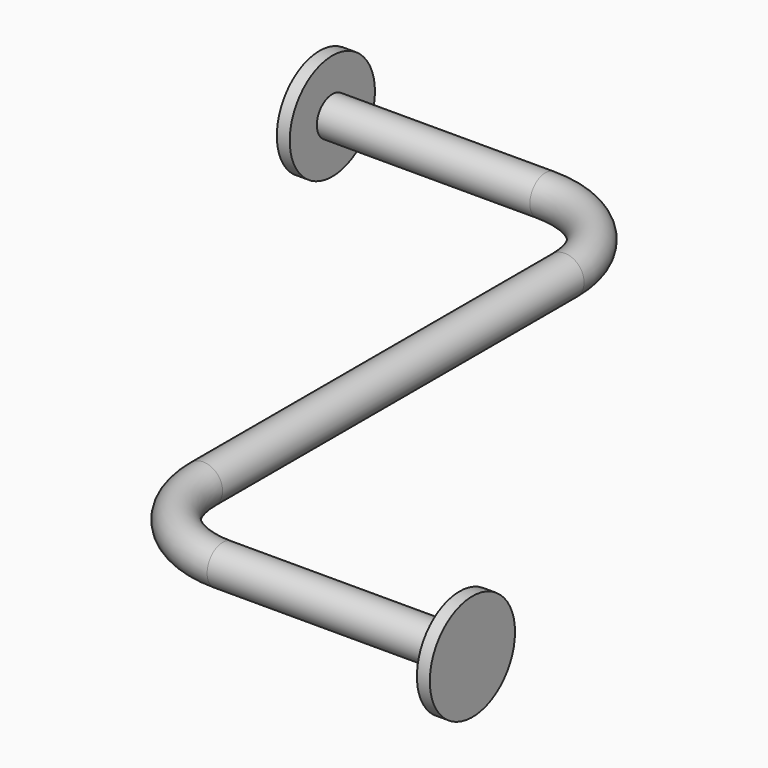
from build123d import *

# Parameters (mm, degrees)
F1_R     = 30
F1_R_2   = 82.5
F3_DEPTH = 20
F4_R     = 82.5
F4_R_2   = 30
F5_DEPTH = 20


with BuildPart() as f2:
    # F2: sweep along a path in F0
    with BuildLine(Plane.XY) as f2_path:
        Line((0, 0), (350, 0))
        ThreePointArc((350, 0), (456.066017178, -43.933982822), (500, -150))
        Line((500, -150), (500, -850))
        ThreePointArc((500, -850), (543.933982822, -956.066017178), (650, -1000))
        Line((650, -1000), (1037, -1000))
    # F1 (on Right) → F2 (sweep)
    with BuildSketch(Plane.YZ):
        Circle(F1_R)
    sweep(path=f2_path.line)

    # F1 (on Right) → F3 (join)
    with BuildSketch(Plane.YZ):
        Circle(F1_R_2)
        Circle(F1_R, mode=Mode.SUBTRACT)
    extrude(amount=F3_DEPTH)

    # F4 (on face) → F5 (join)
    with BuildSketch(Plane.YZ.offset(1037)):
        with Locations((-1000, 0)):
            Circle(F4_R)
        with Locations((-1000, 0)):
            Circle(F4_R_2, mode=Mode.SUBTRACT)
    extrude(amount=-F5_DEPTH)


solid = f2.part
